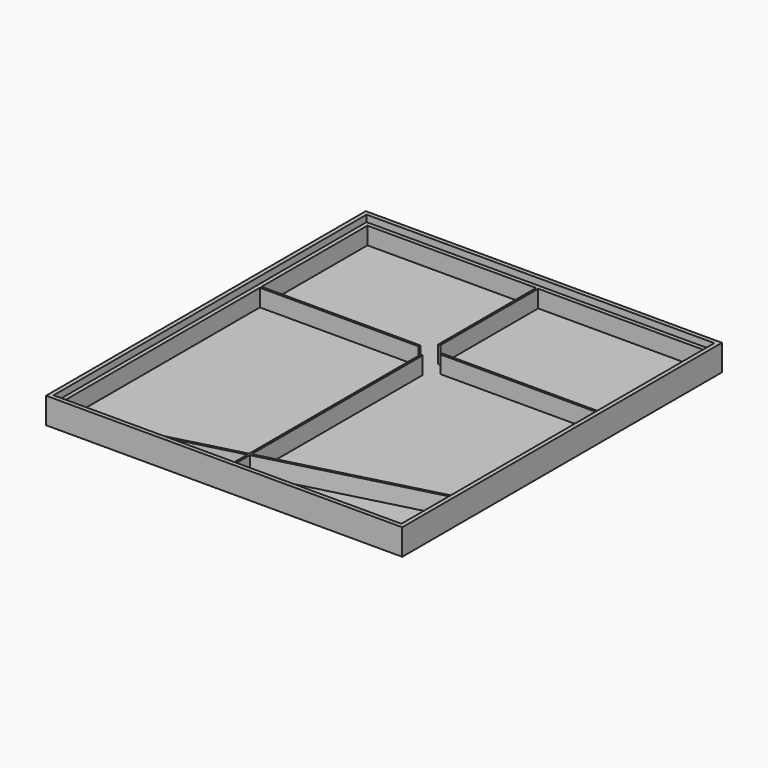
from build123d import *

# Parameters (mm, degrees)
F0_W     = 205
F0_H     = 230
F1_DEPTH = 15
F2_W     = 200.2
F2_H     = 225.2
F3_DEPTH = 13.8
F4_W     = 200.2
F4_H     = 225.2
F5_DEPTH = 9.99
F7_DEPTH = 9.99
F9_DEPTH = 9.99


with BuildPart() as f1:
    # F0 (on Top) → F1 (new body)
    with BuildSketch(Plane.XY):
        with Locations((102.5, 115)):
            Rectangle(F0_W, F0_H)
    extrude(amount=F1_DEPTH)

    # F2 (on face) → F3 (cut, through all)
    with BuildSketch(Plane.XY.offset(15)):
        with Locations((102.5, 115)):
            Rectangle(F2_W, F2_H)
    extrude(amount=-F3_DEPTH, mode=Mode.SUBTRACT)

    # F4 (on face) → F5 (join, through all)
    with BuildSketch(Plane.XY.offset(1.2)):
        with Locations((102.5, 115)):
            Rectangle(F4_W, F4_H)
        Polygon((4.8, 149), (4.8, 225.2), (101.9, 225.2), (103.1, 225.2), (200.2, 225.2), (200.2, 149), (200.2, 147.8), (200.2, 4.8), (103.1, 4.8), (101.9, 4.8), (4.8, 4.8), (4.8, 147.8), align=None, mode=Mode.SUBTRACT)
        Polygon((103.1, 225.2), (101.9, 225.2), (101.9, 149), (4.8, 149), (4.8, 147.8), (101.9, 147.8), (101.9, 4.8), (103.1, 4.8), (103.1, 147.8), (200.2, 147.8), (200.2, 149), (103.1, 149), align=None)
    extrude(amount=F5_DEPTH)

    # F6 (on face) → F7 (cut, through all)
    with BuildSketch(Plane.XY.offset(11.19)):
        with BuildLine():
            Line((103.1, 154.7215899899), (103.1, 149))
            Line((103.1, 149), (108.8215899899, 149))
            ThreePointArc((108.8215899899, 149), (106.9901280605, 152.8901280605), (103.1, 154.7215899899))
        make_face()
        with BuildLine():
            Line((102.5, 148.4), (103.1, 149))
            Line((103.1, 149), (103.1, 154.7215899899))
            ThreePointArc((103.1, 154.7215899899), (102.5, 154.75), (101.9, 154.7215899899))
            Line((101.9, 154.7215899899), (101.9, 149))
            Line((101.9, 149), (102.5, 148.4))
        make_face()
        with BuildLine():
            Line((96.1784100101, 149), (101.9, 149))
            Line((101.9, 149), (101.9, 154.7215899899))
            ThreePointArc((101.9, 154.7215899899), (98.0098719395, 152.8901280605), (96.1784100101, 149))
        make_face()
        with BuildLine():
            Line((96.1784100101, 147.8), (101.9, 147.8))
            Line((101.9, 147.8), (101.9, 149))
            Line((101.9, 149), (96.1784100101, 149))
            ThreePointArc((96.1784100101, 149), (96.15, 148.4), (96.1784100101, 147.8))
        make_face()
        Polygon((101.9, 147.8), (102.5, 148.4), (101.9, 149), align=None)
        with BuildLine():
            Line((108.8215899899, 149), (103.1, 149))
            Line((103.1, 149), (102.5, 148.4))
            Line((102.5, 148.4), (103.1, 147.8))
            Line((103.1, 147.8), (108.8215899899, 147.8))
            ThreePointArc((108.8215899899, 147.8), (108.8428935209, 148.0996638847), (108.85, 148.4))
            ThreePointArc((108.85, 148.4), (108.8428935209, 148.7003361153), (108.8215899899, 149))
        make_face()
        with BuildLine():
            Line((103.1, 147.8), (102.5, 148.4))
            Line((102.5, 148.4), (101.9, 147.8))
            Line((101.9, 147.8), (101.9, 142.0784100101))
            ThreePointArc((101.9, 142.0784100101), (102.5, 142.05), (103.1, 142.0784100101))
            Line((103.1, 142.0784100101), (103.1, 147.8))
        make_face()
        with BuildLine():
            Line((108.8215899899, 147.8), (103.1, 147.8))
            Line((103.1, 147.8), (103.1, 142.0784100101))
            ThreePointArc((103.1, 142.0784100101), (106.9901280605, 143.9098719395), (108.8215899899, 147.8))
        make_face()
        with BuildLine():
            Line((101.9, 142.0784100101), (101.9, 147.8))
            Line((101.9, 147.8), (96.1784100101, 147.8))
            ThreePointArc((96.1784100101, 147.8), (98.0098719395, 143.9098719395), (101.9, 142.0784100101))
        make_face()
    extrude(amount=-F7_DEPTH, mode=Mode.SUBTRACT)

    # F8 (on face) → F9 (join, through all)
    with BuildSketch(Plane.XY.offset(1.2)):
        Polygon((200.2, 44.139730379), (103.1, 18.9472891124), (103.1, 17.7075587334), (200.2, 42.9), align=None)
        Polygon((101.9, 18.6359510123), (48.5716691298, 4.8), (53.35, 4.8), (101.9, 17.3962206333), align=None)
    extrude(amount=F9_DEPTH)


solid = f1.part
